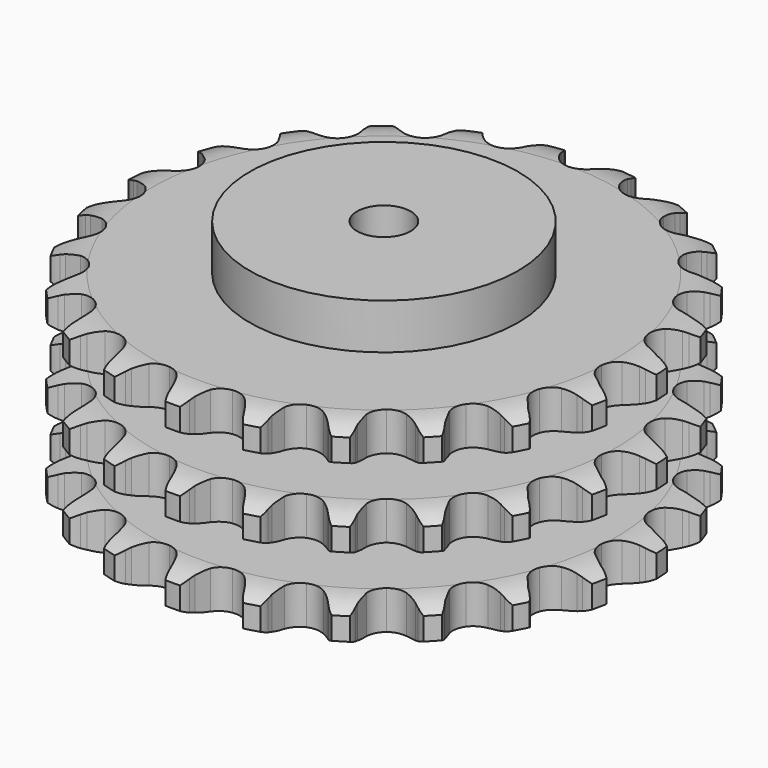
from build123d import *

# Parameters (mm, degrees)
PAD_DEPTH         = 146
SKETCH001_R       = 100
PAD001_DEPTH      = 180
SKETCH002_R       = 20
POCKET_DEPTH      = 0.001
POCKET_DEPTH_BACK = 180.001


with BuildPart() as part:
    # Sprocket → Pad (new body)
    with BuildSketch(Plane.XY):
        with BuildLine():
            ThreePointArc((-27.67133, 201.323879), (-22.048396, 196.405943), (-18.204202, 190.000816))
            Line((-18.204202, 190.000816), (-16.788089, 186.503458))
            ThreePointArc((-16.788089, 186.503458), (-14.527407, 181.85495), (-11.658071, 177.55539))
            ThreePointArc((-11.658071, 177.55539), (-6.496253, 173.331472), (0, 171.820007))
            ThreePointArc((0, 171.820007), (6.496253, 173.331472), (11.658071, 177.55539))
            ThreePointArc((11.658071, 177.55539), (14.527407, 181.85495), (16.788089, 186.503458))
            Line((16.788089, 186.503458), (18.204202, 190.000816))
            ThreePointArc((18.204202, 190.000816), (22.048396, 196.405943), (27.67133, 201.323879))
            ThreePointArc((27.67133, 201.323879), (31.758907, 195.071264), (33.732466, 187.866505))
            Line((33.732466, 187.866505), (34.152489, 184.116776))
            ThreePointArc((34.152489, 184.116776), (35.075187, 179.030723), (36.678113, 174.116464))
            ThreePointArc((36.678113, 174.116464), (40.508917, 168.656539), (46.356483, 165.448455))
            ThreePointArc((46.356483, 165.448455), (53.019626, 165.151203), (59.129629, 167.825845))
            Line((59.129629, 167.825845), (66.483572, 175.058032))
            ThreePointArc((66.483572, 175.058032), (67.600162, 176.579424), (68.790747, 178.043635))
            ThreePointArc((68.790747, 178.043635), (74.220471, 183.174092), (80.961735, 186.392608))
            ThreePointArc((80.961735, 186.392608), (83.210798, 179.269041), (83.167351, 171.798995))
            Line((83.167351, 171.798995), (82.560134, 168.074995))
            ThreePointArc((82.560134, 168.074995), (82.076415, 162.928606), (82.294049, 157.764117))
            ThreePointArc((82.294049, 157.764117), (84.509726, 151.473122), (89.274918, 146.806348))
            ThreePointArc((89.274918, 146.806348), (95.610776, 144.722425), (102.215813, 145.649424))
            Line((102.215813, 145.649424), (111.248273, 150.629352))
            ThreePointArc((111.248273, 150.629352), (112.733923, 151.793074), (114.275397, 152.881773))
            ThreePointArc((114.275397, 152.881773), (120.887953, 156.357056), (128.247578, 157.63745))
            ThreePointArc((128.247578, 157.63745), (128.491325, 150.171254), (126.434094, 142.989939))
            Line((126.434094, 142.989939), (124.844671, 139.567861))
            ThreePointArc((124.844671, 139.567861), (122.990411, 134.742819), (121.806612, 129.711127))
            ThreePointArc((121.806612, 129.711127), (122.242836, 123.055637), (125.57224, 117.276286))
            ThreePointArc((125.57224, 117.276286), (131.110912, 113.560246), (137.721117, 112.670852))
            Line((137.721117, 112.670852), (147.762198, 115.029182))
            ThreePointArc((147.762198, 115.029182), (149.506725, 115.748927), (151.284764, 116.381369))
            ThreePointArc((151.284764, 116.381369), (158.589729, 117.943733), (166.021885, 117.191043))
            ThreePointArc((166.021885, 117.191043), (164.242237, 109.935953), (160.323799, 103.575974))
            Line((160.323799, 103.575974), (157.870051, 100.709617))
            ThreePointArc((157.870051, 100.709617), (154.78277, 96.563774), (152.285335, 92.038056))
            ThreePointArc((152.285335, 92.038056), (150.909753, 85.511678), (152.556444, 79.048378))
            ThreePointArc((152.556444, 79.048378), (156.887151, 73.975823), (163.012277, 71.335999))
            Line((163.012277, 71.335999), (173.317277, 70.897824))
            ThreePointArc((173.317277, 70.897824), (175.191297, 71.120211), (177.074032, 71.249491))
            ThreePointArc((177.074032, 71.249491), (184.52963, 70.783063), (191.483108, 68.053113))
            ThreePointArc((191.483108, 68.053113), (187.812055, 61.547204), (182.323021, 56.480253))
            Line((182.323021, 56.480253), (179.18693, 54.382201))
            ThreePointArc((179.18693, 54.382201), (175.0956, 51.223036), (171.469752, 47.538943))
            ThreePointArc((171.469752, 47.538943), (168.384385, 41.625709), (168.226235, 34.957814))
            ThreePointArc((168.226235, 34.957814), (171.027788, 28.904952), (176.213561, 24.71048))
            Line((176.213561, 24.71048), (186.018206, 21.508299))
            ThreePointArc((186.018206, 21.508299), (187.882731, 21.216835), (189.73053, 20.833364))
            ThreePointArc((189.73053, 20.833364), (196.783812, 18.372736), (202.742905, 13.867995))
            ThreePointArc((202.742905, 13.867995), (197.452711, 8.593781), (190.800179, 5.195649))
            Line((190.800179, 5.195649), (187.214335, 4.021506))
            ThreePointArc((187.214335, 4.021506), (182.42239, 2.083319), (177.937042, -0.485915))
            ThreePointArc((177.937042, -0.485915), (173.370717, -5.347449), (171.419455, -11.725412))
            ThreePointArc((171.419455, -11.725412), (172.484077, -18.309667), (176.345892, -23.747701))
            Line((176.345892, -23.747701), (184.923016, -29.476399))
            ThreePointArc((184.923016, -29.476399), (186.639764, -30.260098), (188.315581, -31.127878))
            ThreePointArc((188.315581, -31.127878), (194.44344, -35.400212), (198.966188, -41.345649))
            ThreePointArc((198.966188, -41.345649), (192.449203, -44.997004), (185.12656, -46.474292))
            Line((185.12656, -46.474292), (181.356909, -46.637445))
            ThreePointArc((181.356909, -46.637445), (176.219746, -47.210907), (171.207556, -48.474736))
            ThreePointArc((171.207556, -48.474736), (165.498936, -51.924011), (161.899278, -57.539017))
            ThreePointArc((161.899278, -57.539017), (161.14801, -64.166342), (163.399455, -70.444624))
            Line((163.399455, -70.444624), (170.112932, -78.274966))
            ThreePointArc((170.112932, -78.274966), (171.554578, -79.492777), (172.934128, -80.780507))
            ThreePointArc((172.934128, -80.780507), (177.682086, -86.547688), (180.43306, -93.492876))
            ThreePointArc((180.43306, -93.492876), (173.172618, -95.250567), (165.722951, -94.697447))
            Line((165.722951, -94.697447), (162.049071, -93.837511))
            ThreePointArc((162.049071, -93.837511), (156.947689, -93.003717), (151.780388, -92.868407))
            ThreePointArc((151.780388, -92.868407), (145.352856, -94.649606), (140.371773, -99.085217))
            ThreePointArc((140.371773, -99.085217), (137.860333, -105.264093), (138.334428, -111.916992))
            Line((138.334428, -111.916992), (142.686349, -121.268238))
            ThreePointArc((142.686349, -121.268238), (143.745975, -122.82984), (144.726941, -124.442016))
            ThreePointArc((144.726941, -124.442016), (147.742866, -131.276318), (148.518036, -138.706163))
            ThreePointArc((148.518036, -138.706163), (141.052613, -138.43983), (134.028429, -135.897326))
            Line((134.028429, -135.897326), (130.722794, -134.078077))
            ThreePointArc((130.722794, -134.078077), (126.03554, -131.898867), (121.096363, -130.374453))
            ThreePointArc((121.096363, -130.374453), (114.42662, -130.355473), (108.433535, -133.282719))
            ThreePointArc((108.433535, -133.282719), (104.348186, -138.554887), (103.009769, -145.088988))
            Line((103.009769, -145.088988), (104.677374, -155.267599))
            ThreePointArc((104.677374, -155.267599), (105.27639, -157.057176), (105.786019, -158.87423))
            ThreePointArc((105.786019, -158.87423), (106.846233, -166.268784), (105.58811, -173.632249))
            ThreePointArc((105.58811, -173.632249), (98.47138, -171.361645), (92.393631, -167.018322))
            Line((92.393631, -167.018322), (89.701406, -164.374686))
            ThreePointArc((89.701406, -164.374686), (85.775912, -161.011681), (81.431175, -158.211222))
            ThreePointArc((81.431175, -158.211222), (75.013884, -156.393471), (68.453278, -157.595252))
            ThreePointArc((68.453278, -157.595252), (63.097011, -161.5697), (60.045347, -167.500398))
            Line((60.045347, -167.500398), (58.904956, -177.751473))
            ThreePointArc((58.904956, -177.751473), (58.998937, -179.6363), (58.999433, -181.523469))
            ThreePointArc((58.999433, -181.523469), (58.025304, -188.929856), (54.827196, -195.680825))
            ThreePointArc((54.827196, -195.680825), (48.586975, -191.574351), (43.906421, -185.752333))
            Line((43.906421, -185.752333), (42.027275, -182.480377))
            ThreePointArc((42.027275, -182.480377), (39.154677, -178.182995), (35.726609, -174.314189))
            ThreePointArc((35.726609, -174.314189), (30.037713, -170.832481), (23.396155, -170.219666))
            ThreePointArc((23.396155, -170.219666), (17.166219, -172.601627), (12.627636, -177.48907))
            Line((12.627636, -177.48907), (8.763827, -187.052333))
            ThreePointArc((8.763827, -187.052333), (8.345802, -188.892621), (7.837128, -190.709943))
            ThreePointArc((7.837128, -190.709943), (4.900903, -197.578864), (0, -203.21665))
            ThreePointArc((0, -203.21665), (-4.900903, -197.578864), (-7.837128, -190.709943))
            Line((-7.837128, -190.709943), (-8.763827, -187.052333))
            ThreePointArc((-8.763827, -187.052333), (-10.370481, -182.139292), (-12.627636, -177.48907))
            ThreePointArc((-12.627636, -177.48907), (-17.166219, -172.601627), (-23.396155, -170.219666))
            ThreePointArc((-23.396155, -170.219666), (-30.037713, -170.832481), (-35.726609, -174.314189))
            Line((-35.726609, -174.314189), (-42.027275, -182.480377))
            ThreePointArc((-42.027275, -182.480377), (-42.926302, -184.139641), (-43.906421, -185.752333))
            ThreePointArc((-43.906421, -185.752333), (-48.586975, -191.574351), (-54.827196, -195.680825))
            ThreePointArc((-54.827196, -195.680825), (-58.025304, -188.929856), (-58.999433, -181.523469))
            Line((-58.999433, -181.523469), (-58.904956, -177.751473))
            ThreePointArc((-58.904956, -177.751473), (-59.126509, -172.58715), (-60.045347, -167.500398))
            ThreePointArc((-60.045347, -167.500398), (-63.097011, -161.5697), (-68.453278, -157.595252))
            ThreePointArc((-68.453278, -157.595252), (-75.013884, -156.393471), (-81.431175, -158.211222))
            Line((-81.431175, -158.211222), (-89.701406, -164.374686))
            ThreePointArc((-89.701406, -164.374686), (-91.014759, -165.729866), (-92.393631, -167.018322))
            ThreePointArc((-92.393631, -167.018322), (-98.47138, -171.361645), (-105.58811, -173.632249))
            ThreePointArc((-105.58811, -173.632249), (-106.846233, -166.268784), (-105.786019, -158.87423))
            Line((-105.786019, -158.87423), (-104.677374, -155.267599))
            ThreePointArc((-104.677374, -155.267599), (-103.497393, -150.23501), (-103.009769, -145.088988))
            ThreePointArc((-103.009769, -145.088988), (-104.348186, -138.554887), (-108.433535, -133.282719))
            ThreePointArc((-108.433535, -133.282719), (-114.42662, -130.355473), (-121.096363, -130.374453))
            Line((-121.096363, -130.374453), (-130.722794, -134.078077))
            ThreePointArc((-130.722794, -134.078077), (-132.353068, -135.028665), (-134.028429, -135.897326))
            ThreePointArc((-134.028429, -135.897326), (-141.052613, -138.43983), (-148.518036, -138.706163))
            ThreePointArc((-148.518036, -138.706163), (-147.742866, -131.276318), (-144.726941, -124.442016))
            Line((-144.726941, -124.442016), (-142.686349, -121.268238))
            ThreePointArc((-142.686349, -121.268238), (-140.19235, -116.740625), (-138.334428, -111.916992))
            ThreePointArc((-138.334428, -111.916992), (-137.860333, -105.264093), (-140.371773, -99.085217))
            ThreePointArc((-140.371773, -99.085217), (-145.352856, -94.649606), (-151.780388, -92.868407))
            Line((-151.780388, -92.868407), (-162.049071, -93.837511))
            ThreePointArc((-162.049071, -93.837511), (-163.875355, -94.313005), (-165.722951, -94.697447))
            ThreePointArc((-165.722951, -94.697447), (-173.172618, -95.250567), (-180.43306, -93.492876))
            ThreePointArc((-180.43306, -93.492876), (-177.682086, -86.547688), (-172.934128, -80.780507))
            Line((-172.934128, -80.780507), (-170.112932, -78.274966))
            ThreePointArc((-170.112932, -78.274966), (-166.489881, -74.588123), (-163.399455, -70.444624))
            ThreePointArc((-163.399455, -70.444624), (-161.14801, -64.166342), (-161.899278, -57.539017))
            ThreePointArc((-161.899278, -57.539017), (-165.498936, -51.924011), (-171.207556, -48.474736))
            Line((-171.207556, -48.474736), (-181.356909, -46.637445))
            ThreePointArc((-181.356909, -46.637445), (-183.243756, -46.602582), (-185.12656, -46.474292))
            ThreePointArc((-185.12656, -46.474292), (-192.449203, -44.997004), (-198.966188, -41.345649))
            ThreePointArc((-198.966188, -41.345649), (-194.44344, -35.400212), (-188.315581, -31.127878))
            Line((-188.315581, -31.127878), (-184.923016, -29.476399))
            ThreePointArc((-184.923016, -29.476399), (-180.439619, -26.903761), (-176.345892, -23.747701))
            ThreePointArc((-176.345892, -23.747701), (-172.484077, -18.309667), (-171.419455, -11.725412))
            ThreePointArc((-171.419455, -11.725412), (-173.370717, -5.347449), (-177.937042, -0.485915))
            Line((-177.937042, -0.485915), (-187.214335, 4.021506))
            ThreePointArc((-187.214335, 4.021506), (-189.021807, 4.564142), (-190.800179, 5.195649))
            ThreePointArc((-190.800179, 5.195649), (-197.452711, 8.593781), (-202.742905, 13.867995))
            ThreePointArc((-202.742905, 13.867995), (-196.783812, 18.372736), (-189.73053, 20.833364))
            Line((-189.73053, 20.833364), (-186.018206, 21.508299))
            ThreePointArc((-186.018206, 21.508299), (-181.006976, 22.77593), (-176.213561, 24.71048))
            ThreePointArc((-176.213561, 24.71048), (-171.027788, 28.904952), (-168.226235, 34.957814))
            ThreePointArc((-168.226235, 34.957814), (-168.384385, 41.625709), (-171.469752, 47.538943))
            Line((-171.469752, 47.538943), (-179.18693, 54.382201))
            ThreePointArc((-179.18693, 54.382201), (-180.780975, 55.392365), (-182.323021, 56.480253))
            ThreePointArc((-182.323021, 56.480253), (-187.812055, 61.547204), (-191.483108, 68.053113))
            ThreePointArc((-191.483108, 68.053113), (-184.52963, 70.783063), (-177.074032, 71.249491))
            Line((-177.074032, 71.249491), (-173.317277, 70.897824))
            ThreePointArc((-173.317277, 70.897824), (-168.149874, 70.766435), (-163.012277, 71.335999))
            ThreePointArc((-163.012277, 71.335999), (-156.887151, 73.975823), (-152.556444, 79.048378))
            ThreePointArc((-152.556444, 79.048378), (-150.909753, 85.511678), (-152.285335, 92.038056))
            Line((-152.285335, 92.038056), (-157.870051, 100.709617))
            ThreePointArc((-157.870051, 100.709617), (-159.132445, 102.112389), (-160.323799, 103.575974))
            ThreePointArc((-160.323799, 103.575974), (-164.242237, 109.935953), (-166.021885, 117.191043))
            ThreePointArc((-166.021885, 117.191043), (-158.589729, 117.943733), (-151.284764, 116.381369))
            Line((-151.284764, 116.381369), (-147.762198, 115.029182))
            ThreePointArc((-147.762198, 115.029182), (-142.821865, 113.508517), (-137.721117, 112.670852))
            ThreePointArc((-137.721117, 112.670852), (-131.110912, 113.560246), (-125.57224, 117.276286))
            ThreePointArc((-125.57224, 117.276286), (-122.242836, 123.055637), (-121.806612, 129.711127))
            Line((-121.806612, 129.711127), (-124.844671, 139.567861))
            ThreePointArc((-124.844671, 139.567861), (-125.681789, 141.259204), (-126.434094, 142.989939))
            ThreePointArc((-126.434094, 142.989939), (-128.491325, 150.171254), (-128.247578, 157.63745))
            ThreePointArc((-128.247578, 157.63745), (-120.887953, 156.357056), (-114.275397, 152.881773))
            Line((-114.275397, 152.881773), (-111.248273, 150.629352))
            ThreePointArc((-111.248273, 150.629352), (-106.901412, 147.832191), (-102.215813, 145.649424))
            ThreePointArc((-102.215813, 145.649424), (-95.610776, 144.722425), (-89.274918, 146.806348))
            ThreePointArc((-89.274918, 146.806348), (-84.509726, 151.473122), (-82.294049, 157.764117))
            Line((-82.294049, 157.764117), (-82.560134, 168.074995))
            ThreePointArc((-82.560134, 168.074995), (-82.90989, 169.92947), (-83.167351, 171.798995))
            ThreePointArc((-83.167351, 171.798995), (-83.210798, 179.269041), (-80.961735, 186.392608))
            ThreePointArc((-80.961735, 186.392608), (-74.220471, 183.174092), (-68.790747, 178.043635))
            Line((-68.790747, 178.043635), (-66.483572, 175.058032))
            ThreePointArc((-66.483572, 175.058032), (-63.05257, 171.191828), (-59.129629, 167.825845))
            ThreePointArc((-59.129629, 167.825845), (-53.019626, 165.151203), (-46.356483, 165.448455))
            ThreePointArc((-46.356483, 165.448455), (-40.508917, 168.656539), (-36.678113, 174.116464))
            Line((-36.678113, 174.116464), (-34.152489, 184.116776))
            ThreePointArc((-34.152489, 184.116776), (-33.988944, 185.996845), (-33.732466, 187.866505))
            ThreePointArc((-33.732466, 187.866505), (-31.758907, 195.071264), (-27.67133, 201.323879))
        make_face()
    extrude(amount=PAD_DEPTH)

    # Sketch → Groove (revolve, cut)
    with BuildSketch(Plane.XZ):
        with BuildLine():
            ThreePointArc((172.8, 0), (185.169317, 1.522732), (196.8, 6))
            Line((196.8, 6), (196.8, 22.8))
            ThreePointArc((196.8, 22.8), (185.169317, 27.277268), (172.8, 28.8))
            Line((100, 28.8), (172.8, 28.8))
            Line((100, 28.8), (100, 58.6))
            Line((100, 58.6), (172.8, 58.6))
            ThreePointArc((172.8, 58.6), (185.169317, 60.122732), (196.8, 64.6))
            Line((196.8, 81.4), (196.8, 64.6))
            ThreePointArc((196.8, 81.4), (185.169317, 85.877268), (172.8, 87.4))
            Line((100, 87.4), (172.8, 87.4))
            Line((100, 117.2), (100, 87.4))
            Line((172.8, 117.2), (100, 117.2))
            ThreePointArc((172.8, 117.2), (185.169317, 118.722732), (196.8, 123.2))
            Line((196.8, 123.2), (196.8, 140))
            ThreePointArc((196.8, 140), (185.169317, 144.477268), (172.8, 146))
            Line((172.8, 146), (206.8, 146))
            Line((206.8, 146), (206.8, 0))
            Line((172.8, 0), (206.8, 0))
        make_face()
    revolve(axis=Axis((0, 0, 0), (0, 0, 1)), mode=Mode.SUBTRACT)

    # Sketch001 → Pad001 (join)
    with BuildSketch(Plane.XY):
        Circle(SKETCH001_R)
    extrude(amount=PAD001_DEPTH)

    # Sketch002 → Pocket (cut, two sides)
    with BuildSketch(Plane.XY) as pocket_sk:
        Circle(SKETCH002_R)
    extrude(amount=-POCKET_DEPTH, mode=Mode.SUBTRACT)
    extrude(pocket_sk.sketch, amount=POCKET_DEPTH_BACK, mode=Mode.SUBTRACT)


solid = part.part
